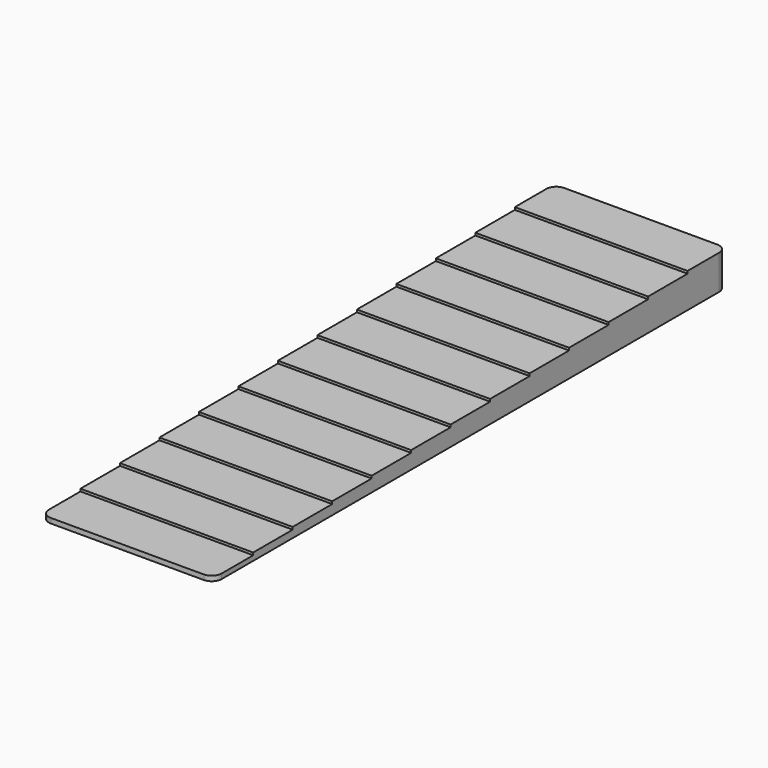
from build123d import *

# Parameters (mm, degrees)
F1_DEPTH = 35
F2_R     = 2


with BuildPart() as f1:
    # F0 (on Right) → F1 (new body)
    with BuildSketch(Plane.YZ):
        Polygon((-60, 4.5), (-60, 4), (-70, 4), (-70, 3.5), (-80, 3.5), (-80, 3), (-90, 3), (-90, 2.5), (-100, 2.5), (-100, 2), (-110, 2), (-110, 1.5), (-120, 1.5), (-120, 1), (-130, 1), (-130, 0), (0, 0), (0, 7), (-10, 7), (-10, 6.5), (-20, 6.5), (-20, 6), (-30, 6), (-30, 5.5), (-40, 5.5), (-40, 5), (-50, 5), (-50, 4.5), align=None)
    extrude(amount=F1_DEPTH)

    # F2
    f2_edges = [f1.edges().sort_by_distance(p)[0] for p in [
        (35, 0, 3.5),
        (35, -130, 0.5),
        (0, -130, 0.5),
        (0, 0, 3.5),
    ]]
    fillet(f2_edges, radius=F2_R)


solid = f1.part
